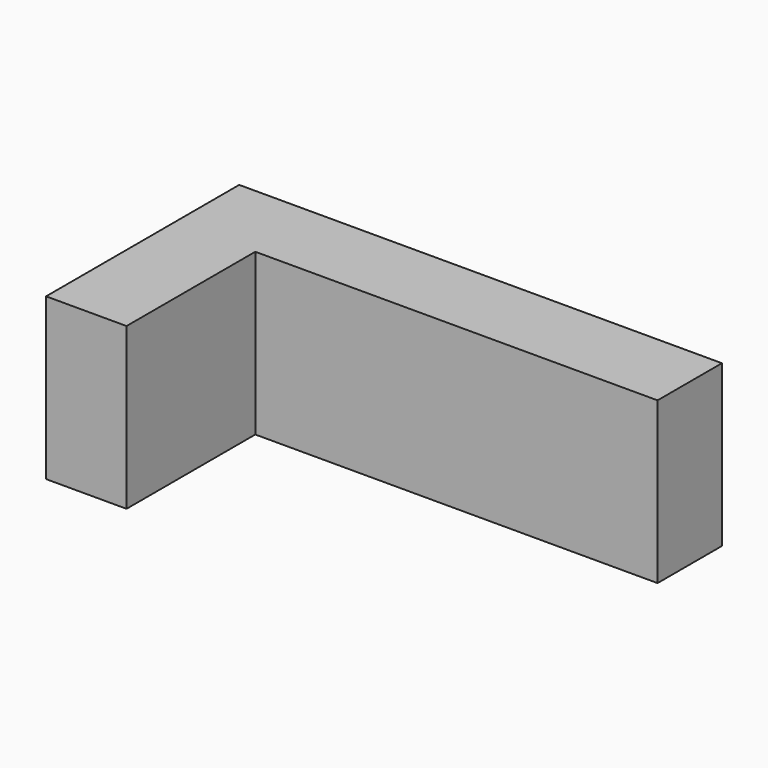
from build123d import *

# Parameters (mm, degrees)
F1_W     = 50.8
F1_H     = 25.4
F2_DEPTH = 25.4
F3_DEPTH = 50.8


with BuildPart() as f2:
    # F1 (on face) → F2 (new body)
    with BuildSketch(Plane.XY):
        with Locations((73.489081, 12.7)):
            Rectangle(F1_W, F1_H)
    extrude(amount=F2_DEPTH)

    # F0 (on Top) → F3 (join)
    with BuildSketch(Plane.XY):
        Polygon((-53.510919, 25.4), (-53.510919, -50.8), (-28.110919, -50.8), (-28.110919, 0), (98.889081, 0), (98.889081, 25.4), align=None)
    extrude(amount=F3_DEPTH)


solid = f2.part
